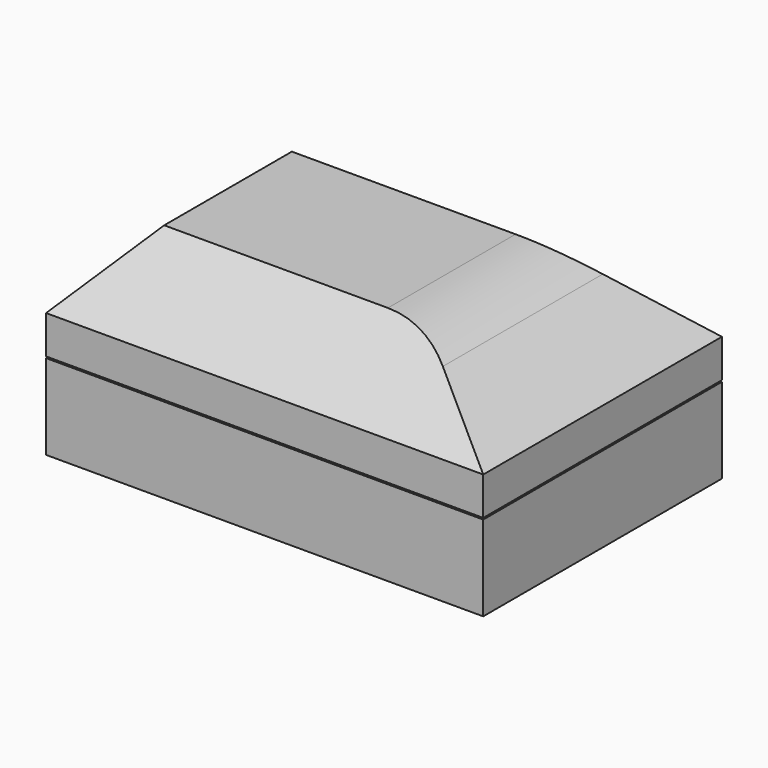
from build123d import *

# Parameters (mm, degrees)
PAD001_DEPTH    = 40
CHAMFER001_SIZE = 20
FILLET001_R     = 39
PAD_DEPTH       = 43
CHAMFER_SIZE    = 20
FILLET_R        = 39
SKETCH002_W     = 164.651825
SKETCH002_H     = 44.684922
POCKET_DEPTH    = 86
SKETCH003_W     = 173.456756
SKETCH003_H     = 38.741608
POCKET001_DEPTH = 86


with BuildPart() as fillet001:
    # Sketch001 → Pad001 (new body, symmetric)
    with BuildSketch(Plane(origin=(0, 0, -25), x_dir=(1, 0, 0), z_dir=(0, -1, 0))):
        Polygon((42.708114, 3), (42.708114, 33), (9.465272, 53), (-58.552668, 53), (-77.291886, 33), (-77.291886, 3), align=None)
    extrude(amount=PAD001_DEPTH, both=True)

    # Chamfer001
    chamfer001_edges = [fillet001.edges().sort_by_distance(p)[0] for p in [
        (-24.543698, 40, 28),
        (-24.543698, -40, 28),
    ]]
    chamfer(chamfer001_edges, length=CHAMFER001_SIZE)

    # Fillet001
    fillet001_edges = [fillet001.edges().sort_by_distance(p)[0] for p in [
        (9.465272, 0, 28),
    ]]
    fillet(fillet001_edges, radius=FILLET001_R)


with BuildPart() as cut:
    # Sketch → Pad (new body, symmetric)
    with BuildSketch(Plane(origin=(0, 0, -25), x_dir=(1, 0, 0), z_dir=(0, -1, 0))):
        Polygon((46.041069, 0), (46.041069, 36), (13.632488, 56), (-61.916813, 56), (-79.958931, 36), (-79.958931, 0), align=None)
    extrude(amount=PAD_DEPTH, both=True)

    # Chamfer
    chamfer_edges = [cut.edges().sort_by_distance(p)[0] for p in [
        (-24.142162, 43, 31),
        (-24.142162, -43, 31),
    ]]
    chamfer(chamfer_edges, length=CHAMFER_SIZE)

    # Fillet
    fillet_edges = [cut.edges().sort_by_distance(p)[0] for p in [
        (13.632488, 0, 31),
    ]]
    fillet(fillet_edges, radius=FILLET_R)

    # Cut: cut Fillet001
    add(fillet001.part, mode=Mode.SUBTRACT)


with BuildPart() as pocket:
    # Pocket base: copy of Cut
    add(cut.part)

    # Sketch002 → Pocket (cut)
    with BuildSketch(Plane.XZ.offset(43)):
        with Locations((-14.08786, 21.902214)):
            Rectangle(SKETCH002_W, SKETCH002_H)
    extrude(amount=-POCKET_DEPTH, mode=Mode.SUBTRACT)


with BuildPart() as pocket001:
    # Pocket001 base: copy of Cut
    add(cut.part)

    # Sketch003 → Pocket001 (cut)
    with BuildSketch(Plane.XZ.offset(43)):
        with Locations((-7.04393, -19.370804)):
            Rectangle(SKETCH003_W, SKETCH003_H)
    extrude(amount=-POCKET001_DEPTH, mode=Mode.SUBTRACT)


solid = Compound([pocket.part, pocket001.part])
